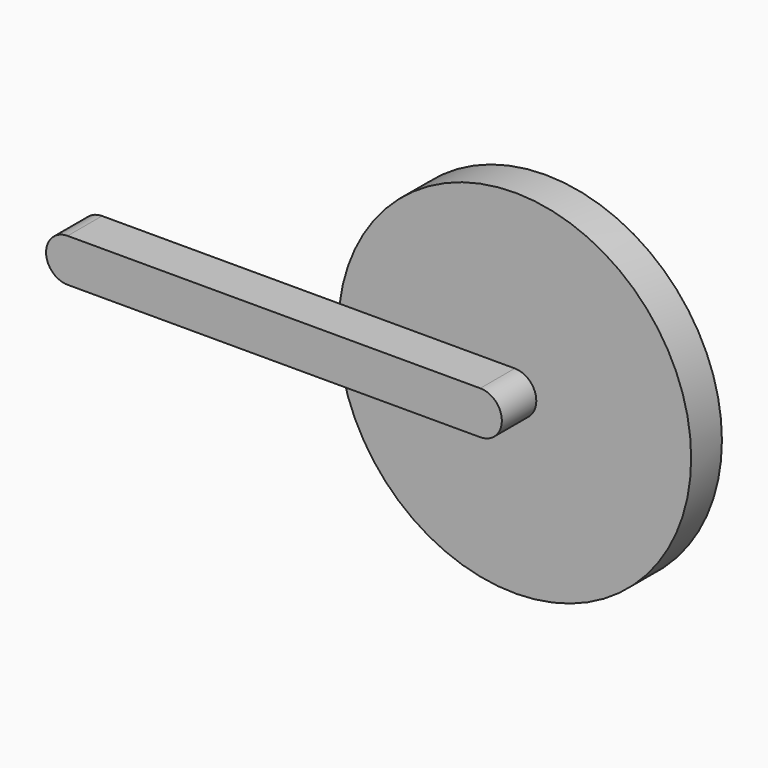
from build123d import *

# Parameters (mm, degrees)
F0_R     = 50.8
F1_DEPTH = 8
F2_R     = 78
F2_R_2   = 50.8
F3_DEPTH = 17
F5_DEPTH = 19.05


with BuildPart() as f1:
    # F0 (on Front) → F1 (new body)
    with BuildSketch(Plane.XZ):
        Circle(F0_R)
    extrude(amount=F1_DEPTH)

    # F2 (on face) → F3 (join)
    with BuildSketch(Plane.XZ.offset(8)):
        Circle(F2_R)
        Circle(F2_R_2, mode=Mode.SUBTRACT)
        Circle(F2_R_2)
    extrude(amount=F3_DEPTH)

    # F4 (on face) → F5 (join)
    with BuildSketch(Plane.XZ.offset(25)):
        with BuildLine():
            ThreePointArc((-78, 0), (-77.853923, 4.771436), (-77.416241, 9.525))
            Line((-77.416241, 9.525), (-182.475, 9.525))
            ThreePointArc((-182.475, 9.525), (-192, 0), (-182.475, -9.525))
            Line((-182.475, -9.525), (-77.416241, -9.525))
            ThreePointArc((-77.416241, -9.525), (-77.853923, -4.771436), (-78, 0))
        make_face()
        with BuildLine():
            ThreePointArc((0, -9.525), (9.525, 0), (0, 9.525))
            Line((0, 9.525), (-77.416241, 9.525))
            ThreePointArc((-77.416241, 9.525), (-77.853923, 4.771436), (-78, 0))
            ThreePointArc((-78, 0), (-77.853923, -4.771436), (-77.416241, -9.525))
            Line((-77.416241, -9.525), (0, -9.525))
        make_face()
    extrude(amount=F5_DEPTH)


solid = f1.part
